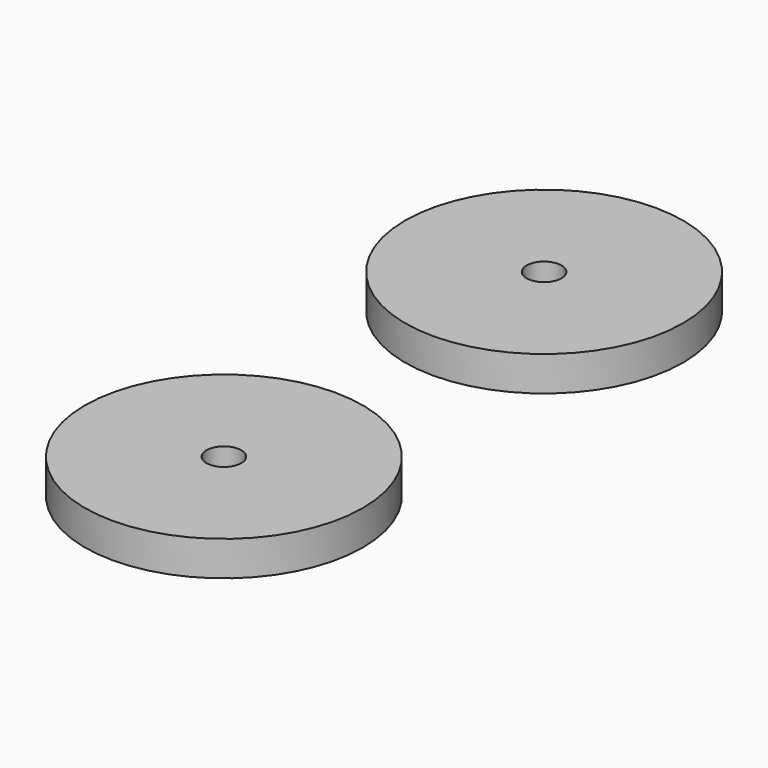
from build123d import *

# Parameters (mm, degrees)
F0_R     = 12.7
F0_R_2   = 1.59258
F1_DEPTH = 3.175


with BuildPart() as f1:
    # F0 (on Top) → F1 (new body)
    with BuildSketch(Plane.XY):
        with Locations((0, 36.565974)):
            Circle(F0_R)
        with Locations((0, 36.565974)):
            Circle(F0_R_2, mode=Mode.SUBTRACT)
        Circle(F0_R)
        Circle(F0_R_2, mode=Mode.SUBTRACT)
    extrude(amount=F1_DEPTH)


solid = f1.part
